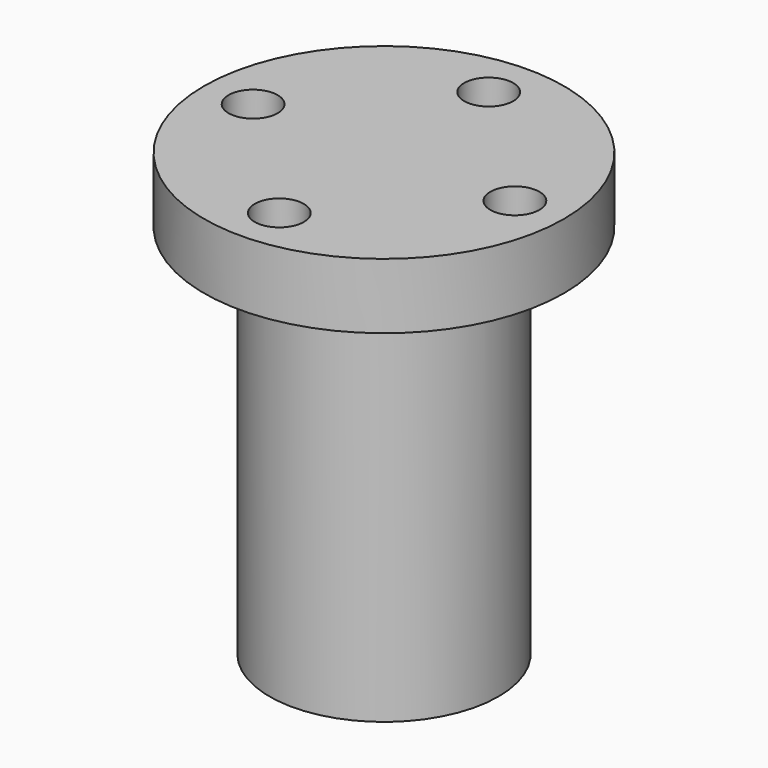
from build123d import *

# Parameters (mm, degrees)
CYLINDER004_R     = 7
CYLINDER004_DEPTH = 23
CYLINDER006_R     = 1.5
CYLINDER006_DEPTH = 20
ARRAY001_COUNT    = 4
CYLINDER005_R     = 11
CYLINDER005_DEPTH = 4


with BuildPart() as backlash_nut_cylinder:
    # Cylinder004 → Cylinder004 (new body)
    with BuildSketch(Plane.XY.offset(-23)):
        Circle(CYLINDER004_R)
    extrude(amount=CYLINDER004_DEPTH)


with BuildPart() as array001:
    # Cylinder006 → Cylinder006 (new body)
    with BuildSketch(Plane(origin=(0, -8, -5), x_dir=(1, 0, 0), z_dir=(0, 0, 1))):
        Circle(CYLINDER006_R)
    extrude(amount=CYLINDER006_DEPTH)

    # Array001: Array001 ×4 about axis
    array001_axis = Axis((0, 0, 0), (0, 0, 1))


with BuildPart() as array001_1:
    add(array001.part)
    for i in range(1, ARRAY001_COUNT):
        add(array001.part.rotate(array001_axis, i * 360 / ARRAY001_COUNT))


with BuildPart() as backlash_nut_union:
    # Cylinder005 → Cylinder005 (new body)
    with BuildSketch(Plane.XY):
        Circle(CYLINDER005_R)
    extrude(amount=CYLINDER005_DEPTH)

    # Cut: cut Array001
    add(array001_1.part, mode=Mode.SUBTRACT)

    # Fusion: union backlash nut cylinder
    add(backlash_nut_cylinder.part)


with BuildPart() as backlash_nut_union_1:
    # Fusion placement: moved
    add(backlash_nut_union.part.moved(Location((0, 0, -83))))


solid = backlash_nut_union_1.part
